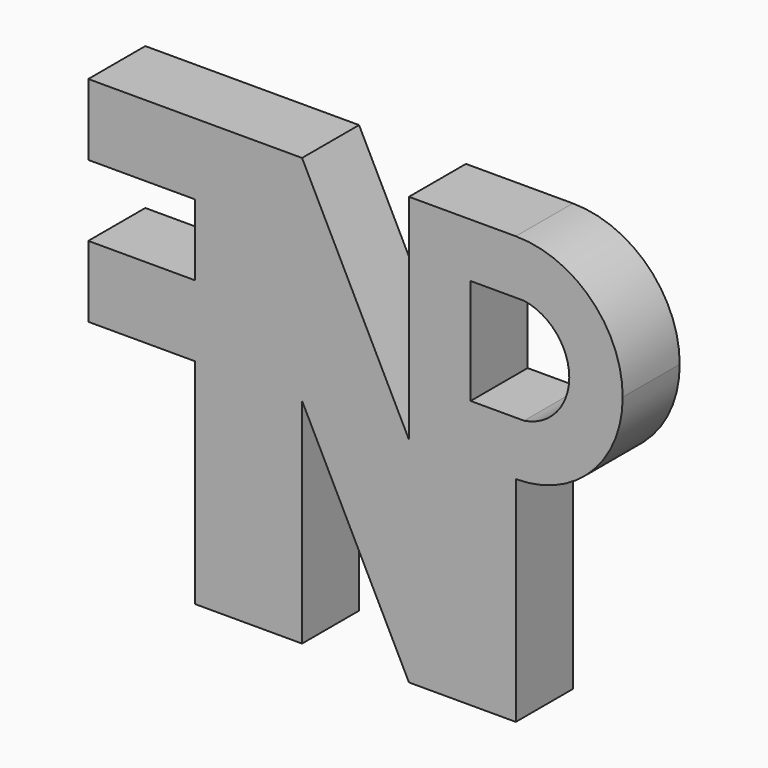
from build123d import *

# Parameters (mm, degrees)
F1_DEPTH = 6.35


with BuildPart() as f1:
    # F0 (on Front) → F1 (new body)
    with BuildSketch(Plane.XZ):
        with BuildLine():
            Line((-19.05, 29.498725), (-28.575, 29.498725))
            Line((-28.575, 29.498725), (-28.575, 23.148725))
            Line((-28.575, 23.148725), (-19.05, 23.148725))
            Line((-19.05, 23.148725), (-19.05, 16.798725))
            Line((-19.05, 16.798725), (-28.575, 16.798725))
            Line((-28.575, 16.798725), (-28.575, 10.448725))
            Line((-28.575, 10.448725), (-19.05, 10.448725))
            Line((-19.05, 10.448725), (-19.05, -8.601275))
            Line((-19.05, -8.601275), (-9.525, -8.601275))
            Line((-9.525, -8.601275), (-9.525, 10.448725))
            Line((-9.525, 10.448725), (0, -8.549587))
            Line((0, -8.549587), (9.525, -8.549587))
            Line((9.525, -8.549587), (9.525, 10.500413))
            ThreePointArc((9.525, 10.500413), (16.260192, 13.290221), (19.05, 20.025413))
            ThreePointArc((19.05, 20.025413), (16.260192, 26.760605), (9.525, 29.550413))
            Line((9.525, 29.550413), (2.38125, 29.550413))
            Line((2.38125, 29.550413), (0, 29.550413))
            Line((0, 29.550413), (0, 28.802633))
            Line((0, 28.802633), (0, 10.500413))
            Line((0, 10.500413), (-9.525, 29.498725))
            Line((-9.525, 29.498725), (-19.05, 29.498725))
        make_face()
        with BuildLine():
            ThreePointArc((10.25927, 24.730969), (13.142898, 23.122545), (14.2875, 20.025413))
            ThreePointArc((14.2875, 20.025413), (13.142898, 16.928282), (10.25927, 15.319858))
            Line((10.25927, 15.319858), (5.49677, 15.319858))
            Line((5.49677, 15.319858), (5.49677, 24.730969))
            Line((5.49677, 24.730969), (10.25927, 24.730969))
        make_face(mode=Mode.SUBTRACT)
    extrude(amount=F1_DEPTH)


solid = f1.part
